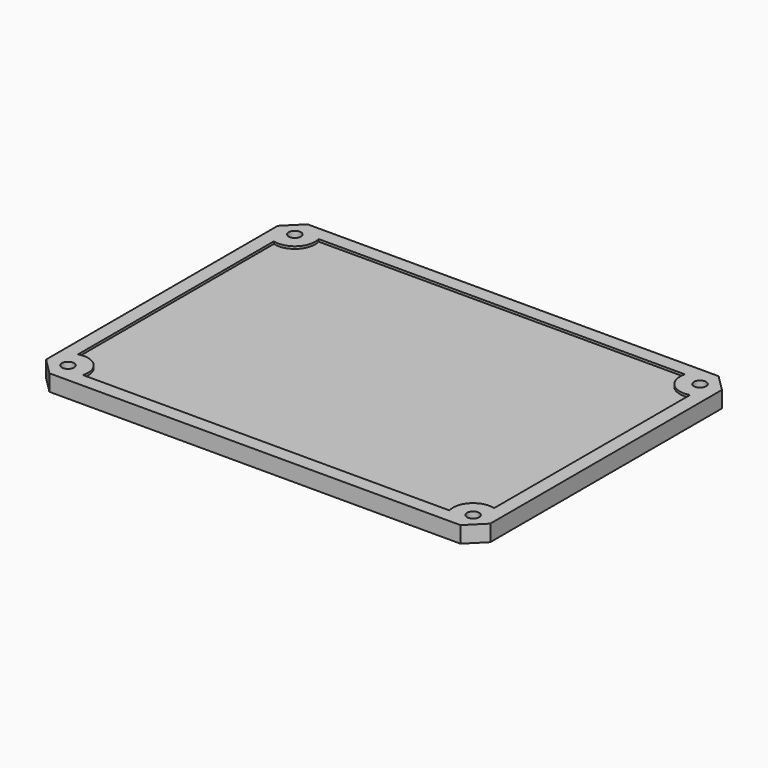
from build123d import *

# Parameters (mm, degrees)
F0_R     = 1.3
F1_DEPTH = 3.5
F2_T     = -3
F3_SIZE  = 2


with BuildPart() as f1:
    # F0 (on Top) → F1 (new body)
    with BuildSketch(Plane.XY):
        Polygon((-39.15, 34.5), (-43.964466, 34.5), (-47.5, 30.964466), (-47.5, 26.15), (-39.15, 26.15), align=None)
        with Locations((-43.325, 30.325)):
            Circle(F0_R, mode=Mode.SUBTRACT)
        Polygon((-27.15, 34.5), (-39.15, 34.5), (-39.15, 26.15), (-47.5, 26.15), (-47.5, 0), (-47.5, -26.15), (-39.15, -26.15), (-39.15, -32.7), (-39.15, -34.5), (-27.15, -34.5), (27.15, -34.5), (39.15, -34.5), (39.15, -32.7), (39.15, -26.15), (47.5, -26.15), (47.5, 0), (47.5, 26.15), (39.15, 26.15), (39.15, 34.5), (27.15, 34.5), align=None)
        Polygon((43.964466, 34.5), (39.15, 34.5), (39.15, 26.15), (47.5, 26.15), (47.5, 30.964466), align=None)
        with Locations((43.325, 30.325)):
            Circle(F0_R, mode=Mode.SUBTRACT)
        Polygon((-39.15, -26.15), (-47.5, -26.15), (-47.5, -30.964466), (-43.964466, -34.5), (-39.15, -34.5), (-39.15, -32.7), align=None)
        with Locations((-43.325, -30.325)):
            Circle(F0_R, mode=Mode.SUBTRACT)
        Polygon((47.5, -30.964466), (47.5, -26.15), (39.15, -26.15), (39.15, -32.7), (39.15, -34.5), (43.964466, -34.5), align=None)
        with Locations((43.325, -30.325)):
            Circle(F0_R, mode=Mode.SUBTRACT)
    extrude(amount=F1_DEPTH)

    # F2
    f2_openings = [f1.faces().sort_by_distance(p)[0] for p in [
        (0, 0, 3.5),
    ]]
    offset(amount=F2_T, openings=f2_openings)

    # F3
    f3_edges = [f1.edges().sort_by_distance(p)[0] for p in [
        (42.025, 30.325, 0),
        (42.025, -30.325, 0),
        (-44.625, -30.325, 0),
        (-44.625, 30.325, 0),
    ]]
    chamfer(f3_edges, length=F3_SIZE)


solid = f1.part
